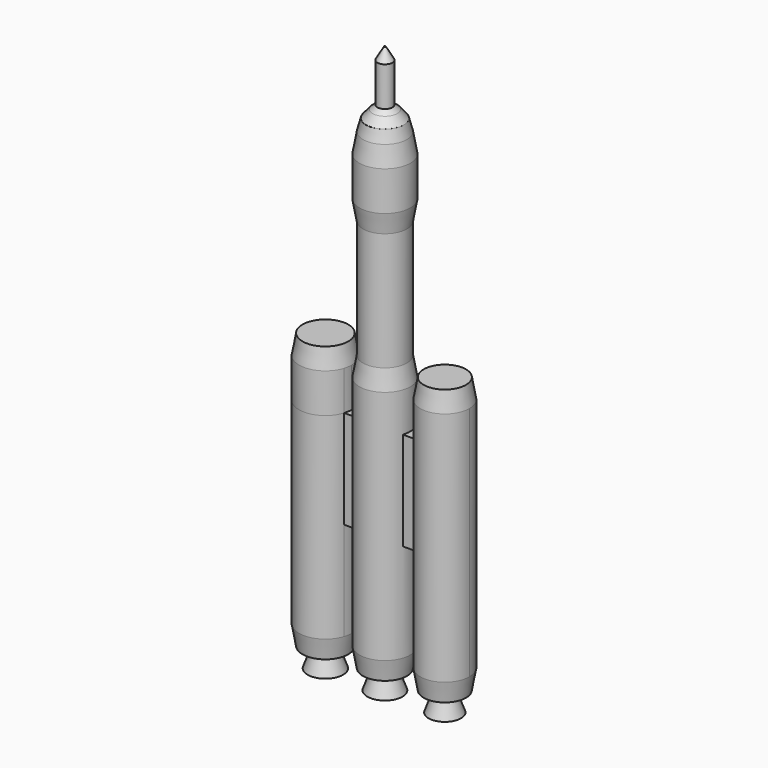
from build123d import *

# Parameters (mm, degrees)
F0_R           = 6.4699981168
F1_DEPTH       = 10
F1_DEPTH_BACK  = 50
F1_FACE_R      = 6.4699981168
F2_DEPTH       = 5
F2_TAPER       = 10
F1_FACE1_R     = 6.4699981168
F3_DEPTH       = 5
F3_TAPER       = 10
F4_R           = 2.6340165395
F5_DEPTH       = 5
F5_TAPER       = -20
F6_R           = 3.8875838451
F7_DEPTH       = 5
F7_TAPER       = 20
F8_W           = 10.0221466273
F8_H           = 2.0072241314
F8_H_2         = 1.9136306364
F8_W_2         = 10.0826621056
F9_DEPTH       = 25
F10_R          = 6.2562819227
F11_DEPTH      = 10
F11_DEPTH_BACK = 50
F11_FACE_R     = 6.2562819227
F12_DEPTH      = 5
F12_TAPER      = 10
F11_FACE1_R    = 6.2562819227
F13_DEPTH      = 5
F13_TAPER      = 10
F14_R          = 2.2911639189
F15_DEPTH      = 5
F15_TAPER      = -20
F16_R          = 3.8569980959
F17_DEPTH      = 5
F17_TAPER      = 20
F18_R          = 6.6968336437
F19_DEPTH      = 10
F19_DEPTH_BACK = 50
F19_FACE_R     = 6.6968336437
F20_DEPTH      = 5
F20_TAPER      = 10
F19_FACE1_R    = 6.6968336437
F21_DEPTH      = 5
F21_TAPER      = 10
F22_R          = 2.6922121505
F23_DEPTH      = 5
F23_TAPER      = -20
F24_R          = 3.9459371666
F25_DEPTH      = 5
F25_TAPER      = 20
F26_DEPTH      = 30
F26_FACE_R     = 5.5883632132
F27_DEPTH      = 5
F27_TAPER      = -10
F28_DEPTH      = 10
F28_FACE_R     = 6.4699981168
F29_DEPTH      = 5
F29_TAPER      = 10
F29_FACE_R     = 5.5883632132
F30_DEPTH      = 3
F30_TAPER      = 15
F30_FACE_R     = 4.7845156359
F31_DEPTH      = 2
F31_TAPER      = 40
F31_FACE_R     = 3.1063163736
F32_DEPTH      = 1
F32_TAPER      = 50
F33_DEPTH      = 10
F33_FACE_R     = 1.914562781
F34_DEPTH      = 3
F34_TAPER      = 30


with BuildPart() as f1:
    # F0 (on Top) → F1 (new body, two sides)
    with BuildSketch(Plane.XY) as f1_sk:
        Circle(F0_R)
    extrude(amount=F1_DEPTH)
    extrude(f1_sk.sketch, amount=-F1_DEPTH_BACK)

    # F1_face (on face) → F2 (join)
    with BuildSketch(Plane.XY.offset(10)):
        Circle(F1_FACE_R)
    extrude(amount=F2_DEPTH, taper=F2_TAPER)

    # F1_face1 (on face) → F3 (join)
    with BuildSketch(Plane(origin=(0, 0, -50), x_dir=(1, 0, 0), z_dir=(0, 0, -1))):
        Circle(F1_FACE1_R)
    extrude(amount=F3_DEPTH, taper=F3_TAPER)

    # F4 (on face) → F5 (join)
    with BuildSketch(Plane(origin=(0, 0, -55), x_dir=(1, 0, 0), z_dir=(0, 0, -1))):
        Circle(F4_R)
    extrude(amount=F5_DEPTH, taper=F5_TAPER)

    # F6 (on face) → F7 (cut)
    with BuildSketch(Plane(origin=(0, 0, -60), x_dir=(1, 0, 0), z_dir=(0, 0, -1))):
        Circle(F6_R)
    extrude(amount=-F7_DEPTH, taper=F7_TAPER, mode=Mode.SUBTRACT)

    # F8 (on Top) → F9 (join)
    with BuildSketch(Plane.XY):
        with Locations((-5.0110733137, -1.0036120657)):
            Rectangle(F8_W, F8_H)
        with Locations((-5.0110733137, 0.9568153182)):
            Rectangle(F8_W, F8_H_2)
        with Locations((5.0413310528, 0.9568153182)):
            Rectangle(F8_W_2, F8_H_2)
        with Locations((5.0413310528, -1.0036120657)):
            Rectangle(F8_W_2, F8_H)
    extrude(amount=-F9_DEPTH)

    # F10 (on face) → F11 (join, two sides)
    with BuildSketch(Plane.XY) as f11_sk:
        with BuildLine():
            ThreePointArc((9.3005501419, -2.0072241314), (16.2432425413, -6.1730446317), (21.4823797001, 0))
            ThreePointArc((21.4823797001, 0), (16.1945878695, 6.1808648616), (9.269665852, 1.9136306364))
            Line((9.269665852, 1.9136306364), (10.0826621056, 1.9136306364))
            Line((10.0826621056, 1.9136306364), (10.0826621056, -2.0072241314))
            Line((10.0826621056, -2.0072241314), (9.3005501419, -2.0072241314))
        make_face()
        with Locations((15.2260977775, 0)):
            Circle(F10_R)
    extrude(amount=F11_DEPTH)
    extrude(f11_sk.sketch, amount=-F11_DEPTH_BACK)

    # F11_face (on face) → F12 (join)
    with BuildSketch(Plane(origin=(15.2260977775, 0, 10), x_dir=(1, 0, 0), z_dir=(0, 0, 1))):
        Circle(F11_FACE_R)
    extrude(amount=F12_DEPTH, taper=F12_TAPER)

    # F11_face1 (on face) → F13 (join)
    with BuildSketch(Plane(origin=(15.2260977775, 0, -50), x_dir=(1, 0, 0), z_dir=(0, 0, -1))):
        Circle(F11_FACE1_R)
    extrude(amount=F13_DEPTH, taper=F13_TAPER)

    # F14 (on face) → F15 (join)
    with BuildSketch(Plane(origin=(0, 0, -55), x_dir=(1, 0, 0), z_dir=(0, 0, -1))):
        with Locations((15.2260977775, 0)):
            Circle(F14_R)
    extrude(amount=F15_DEPTH, taper=F15_TAPER)

    # F16 (on face) → F17 (cut)
    with BuildSketch(Plane(origin=(0, 0, -60), x_dir=(1, 0, 0), z_dir=(0, 0, -1))):
        with Locations((15.2260977775, 0)):
            Circle(F16_R)
    extrude(amount=-F17_DEPTH, taper=F17_TAPER, mode=Mode.SUBTRACT)

    # F18 (on face) → F19 (join, two sides)
    with BuildSketch(Plane.XY) as f19_sk:
        with BuildLine():
            ThreePointArc((-8.7388105431, -2.0072241314), (-8.5083423849, -1.0153501193), (-8.4309229892, 0))
            ThreePointArc((-8.4309229892, 0), (-8.5010989129, 0.9669479373), (-8.7101559411, 1.9136306364))
            Line((-8.7101559411, 1.9136306364), (-10.0221466273, 1.9136306364))
            Line((-10.0221466273, 1.9136306364), (-10.0221466273, -2.0072241314))
            Line((-10.0221466273, -2.0072241314), (-8.7388105431, -2.0072241314))
        make_face()
        with Locations((-15.1277566329, 0)):
            Circle(F18_R)
    extrude(amount=F19_DEPTH)
    extrude(f19_sk.sketch, amount=-F19_DEPTH_BACK)

    # F19_face (on face) → F20 (join)
    with BuildSketch(Plane(origin=(-15.1277566329, 0, 10), x_dir=(1, 0, 0), z_dir=(0, 0, 1))):
        Circle(F19_FACE_R)
    extrude(amount=F20_DEPTH, taper=F20_TAPER)

    # F19_face1 (on face) → F21 (join)
    with BuildSketch(Plane(origin=(-15.1277566329, 0, -50), x_dir=(1, 0, 0), z_dir=(0, 0, -1))):
        Circle(F19_FACE1_R)
    extrude(amount=F21_DEPTH, taper=F21_TAPER)

    # F22 (on face) → F23 (join)
    with BuildSketch(Plane(origin=(0, 0, -55), x_dir=(1, 0, 0), z_dir=(0, 0, -1))):
        with Locations((-15.1277566329, 0)):
            Circle(F22_R)
    extrude(amount=F23_DEPTH, taper=F23_TAPER)

    # F24 (on face) → F25 (cut)
    with BuildSketch(Plane(origin=(0, 0, -60), x_dir=(1, 0, 0), z_dir=(0, 0, -1))):
        with Locations((-15.1277566329, 0)):
            Circle(F24_R)
    extrude(amount=-F25_DEPTH, taper=F25_TAPER, mode=Mode.SUBTRACT)

    # F26 (add): a face of the model
    f26_faces = [f1.faces().sort_by_distance(p)[0] for p in [
        (0, 0, 15),
    ]]
    extrude(f26_faces, amount=F26_DEPTH)

    # F26_face (on face) → F27 (join)
    with BuildSketch(Plane.XY.offset(45)):
        Circle(F26_FACE_R)
    extrude(amount=F27_DEPTH, taper=F27_TAPER)

    # F28 (add): a face of the model
    f28_faces = [f1.faces().sort_by_distance(p)[0] for p in [
        (0, 0, 50),
    ]]
    extrude(f28_faces, amount=F28_DEPTH)

    # F28_face (on face) → F29 (join)
    with BuildSketch(Plane.XY.offset(60)):
        Circle(F28_FACE_R)
    extrude(amount=F29_DEPTH, taper=F29_TAPER)

    # F29_face (on face) → F30 (join)
    with BuildSketch(Plane.XY.offset(65)):
        Circle(F29_FACE_R)
    extrude(amount=F30_DEPTH, taper=F30_TAPER)

    # F30_face (on face) → F31 (join)
    with BuildSketch(Plane.XY.offset(68)):
        Circle(F30_FACE_R)
    extrude(amount=F31_DEPTH, taper=F31_TAPER)

    # F31_face (on face) → F32 (join)
    with BuildSketch(Plane.XY.offset(70)):
        Circle(F31_FACE_R)
    extrude(amount=F32_DEPTH, taper=F32_TAPER)

    # F33 (add): a face of the model
    f33_faces = [f1.faces().sort_by_distance(p)[0] for p in [
        (0, 0, 71),
    ]]
    extrude(f33_faces, amount=F33_DEPTH)

    # F33_face (on face) → F34 (join)
    with BuildSketch(Plane.XY.offset(81)):
        Circle(F33_FACE_R)
    extrude(amount=F34_DEPTH, taper=F34_TAPER)


solid = f1.part
